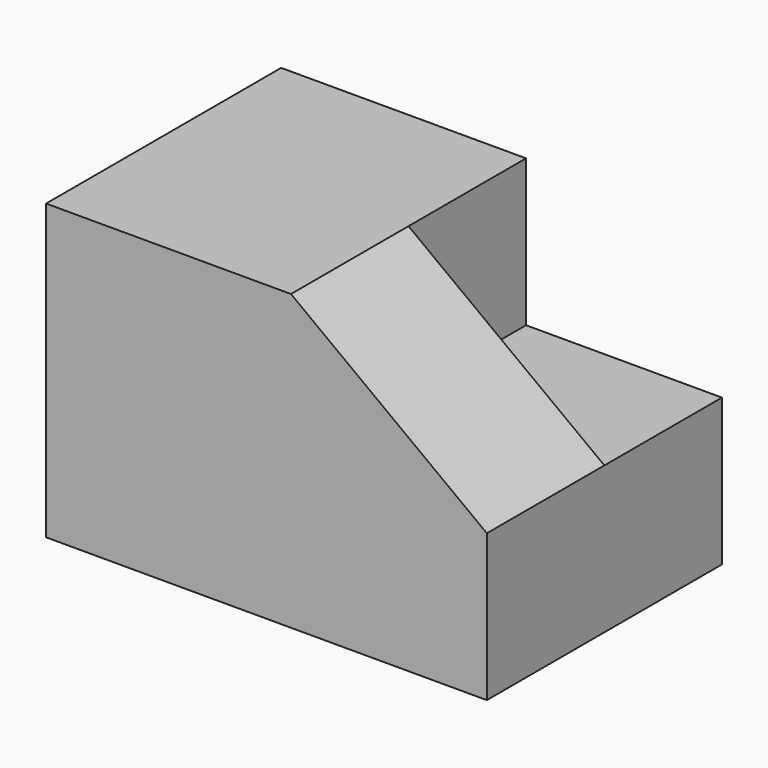
from build123d import *

# Parameters (mm, degrees)
F0_W     = 228.6
F0_H     = 152.4
F1_DEPTH = 76.2
F3_DEPTH = 152.401
F5_DEPTH = 76.2


with BuildPart() as f1:
    # F0 (on Front) → F1 (new body, symmetric)
    with BuildSketch(Plane.XZ):
        Rectangle(F0_W, F0_H)
    extrude(amount=F1_DEPTH, both=True)

    # F2 (on face) → F3 (cut, through all)
    with BuildSketch(Plane(origin=(0, 76.2, 0), x_dir=(-1, 0, 0), z_dir=(0, 1, 0))):
        Polygon((-114.3, 0), (-12.709387, 76.2), (-114.3, 76.2), align=None)
    extrude(amount=-F3_DEPTH, mode=Mode.SUBTRACT)

    # F4 (on face) → F5 (cut)
    with BuildSketch(Plane(origin=(0, 76.2, 0), x_dir=(-1, 0, 0), z_dir=(0, 1, 0))):
        Polygon((-12.709387, 0), (-12.709387, 76.2), (-114.3, 0), align=None)
    extrude(amount=-F5_DEPTH, mode=Mode.SUBTRACT)


solid = f1.part
